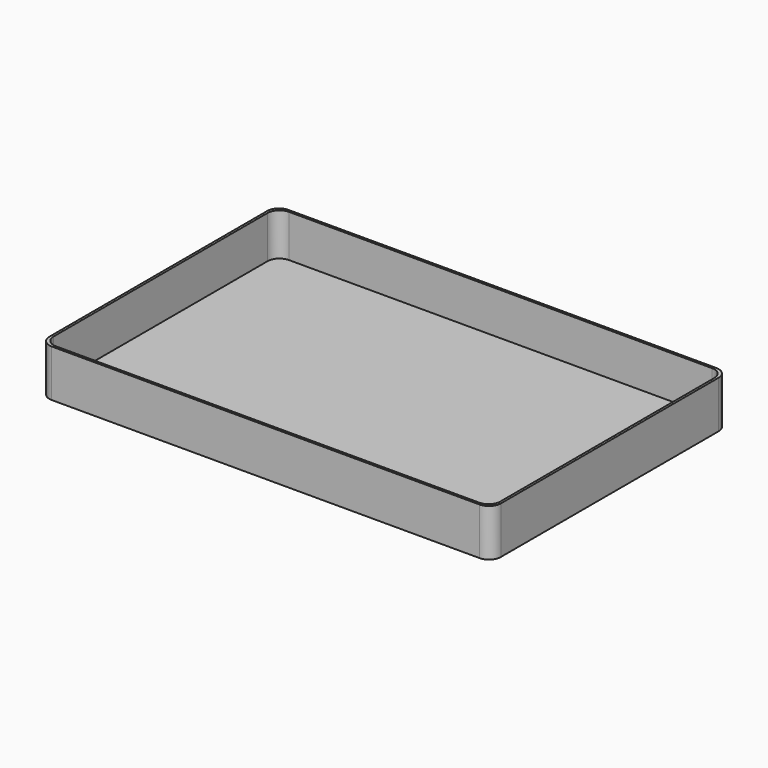
from build123d import *

# Parameters (mm, degrees)
F1_DEPTH = 20
F3_DEPTH = 2


with BuildPart() as f1:
    # F0 (on Top) → F1 (new body)
    with BuildSketch(Plane.XY):
        with BuildLine():
            ThreePointArc((95.75, 57.75), (94.285534, 61.285534), (90.75, 62.75))
            Line((90.75, 62.75), (-90.75, 62.75))
            ThreePointArc((-90.75, 62.75), (-94.285534, 61.285534), (-95.75, 57.75))
            Line((-95.75, 57.75), (-95.75, -57.75))
            ThreePointArc((-95.75, -57.75), (-94.285534, -61.285534), (-90.75, -62.75))
            Line((-90.75, -62.75), (90.75, -62.75))
            ThreePointArc((90.75, -62.75), (94.285534, -61.285534), (95.75, -57.75))
            Line((95.75, -57.75), (95.75, 57.75))
        make_face()
        with BuildLine():
            Line((-89.75, 61.75), (89.75, 61.75))
            ThreePointArc((89.75, 61.75), (93.285534, 60.285534), (94.75, 56.75))
            Line((94.75, 56.75), (94.75, -56.75))
            ThreePointArc((94.75, -56.75), (93.285534, -60.285534), (89.75, -61.75))
            Line((89.75, -61.75), (-89.75, -61.75))
            ThreePointArc((-89.75, -61.75), (-93.285534, -60.285534), (-94.75, -56.75))
            Line((-94.75, -56.75), (-94.75, 56.75))
            ThreePointArc((-94.75, 56.75), (-93.285534, 60.285534), (-89.75, 61.75))
        make_face(mode=Mode.SUBTRACT)
    extrude(amount=F1_DEPTH)

    # F2 (on Top) → F3 (join)
    with BuildSketch(Plane.XY):
        with BuildLine():
            ThreePointArc((95.75, 57.75), (94.285534, 61.285534), (90.75, 62.75))
            Line((90.75, 62.75), (-90.75, 62.75))
            ThreePointArc((-90.75, 62.75), (-94.285534, 61.285534), (-95.75, 57.75))
            Line((-95.75, 57.75), (-95.75, -57.75))
            ThreePointArc((-95.75, -57.75), (-94.285534, -61.285534), (-90.75, -62.75))
            Line((-90.75, -62.75), (90.75, -62.75))
            ThreePointArc((90.75, -62.75), (94.285534, -61.285534), (95.75, -57.75))
            Line((95.75, -57.75), (95.75, 57.75))
        make_face()
    extrude(amount=F3_DEPTH)


solid = f1.part
